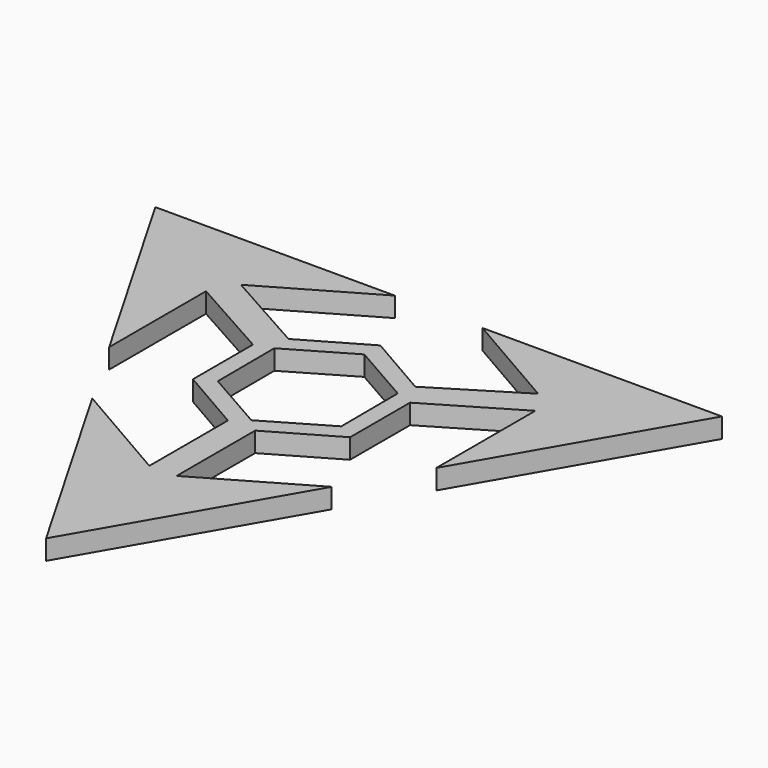
from build123d import *

# Parameters (mm, degrees)
F1_DEPTH = 8
F3_DEPTH = 8


with BuildPart() as f1:
    # F0 (on Top) → F1 (new body)
    with BuildSketch(Plane.XY):
        Polygon((-60.147492, 41.471931), (-17.681831, 65.989492), (-114.297153, 65.989492), (-65.989492, -17.681831), (-65.989492, 31.171025), (-65.989492, 38.099051), align=None)
        Polygon((0, -131.978984), (48.307661, -48.307661), (5.499261, -73.023102), (0, -76.198102), (-5.499261, -73.023102), (-48.307661, -48.307661), align=None)
        Polygon((17.681831, 65.989492), (59.398333, 41.904459), (65.989492, 38.099051), (65.989492, 32.257051), (65.989492, -17.681831), (114.297153, 65.989492), align=None)
        Polygon((31.694195, 18.298652), (26.194933, 21.473652), (0, 36.597303), (-25.344195, 21.964826), (-31.694195, 18.298652), (-31.694195, 11.948652), (-31.694195, -18.298652), (-5.499261, -33.422303), (0, -36.597303), (5.499261, -33.422303), (31.694195, -18.298652), (31.694195, 11.948652), align=None)
        Polygon((-25.344195, 21.964826), (-60.147492, 41.471931), (-65.989492, 38.099051), (-65.989492, 31.171025), (-31.694195, 11.948652), (-31.694195, 18.298652), align=None)
        Polygon((65.989492, 38.099051), (59.398333, 41.904459), (26.194933, 21.473652), (31.694195, 18.298652), (31.694195, 11.948652), (65.989492, 32.257051), align=None)
        Polygon((0, -76.198102), (5.499261, -73.023102), (5.499261, -33.422303), (0, -36.597303), (-5.499261, -33.422303), (-5.499261, -73.023102), align=None)
    extrude(amount=F1_DEPTH)

    # F2 (on face) → F3 (cut)
    with BuildSketch(Plane.XY.offset(8)):
        Polygon((24.743906, 14.438213), (-0.131906, 28.647958), (-24.875813, 14.209745), (-24.743906, -14.438213), (0.131906, -28.647958), (24.875813, -14.209745), align=None)
    extrude(amount=-F3_DEPTH, mode=Mode.SUBTRACT)


solid = f1.part
